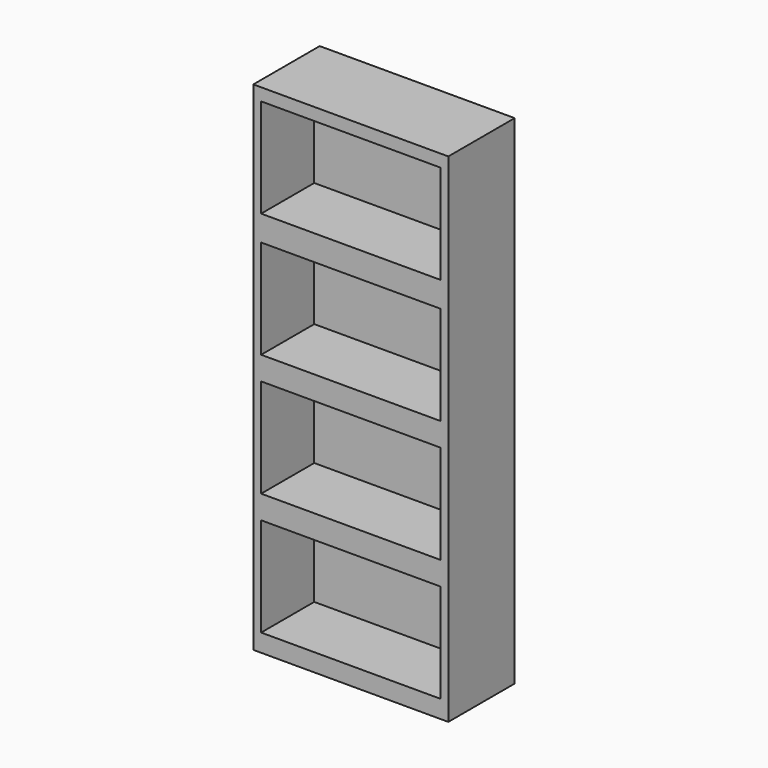
from build123d import *

# Parameters (mm, degrees)
F0_W     = 23.5
F0_H     = 10
F1_DEPTH = 60
F2_W     = 21.615356
F2_H     = 11.912346
F3_DEPTH = 8


with BuildPart() as f1:
    # F0 (on Top) → F1 (new body)
    with BuildSketch(Plane.XY):
        Rectangle(F0_W, F0_H)
    extrude(amount=F1_DEPTH)

    # F2 (on face) → F3 (cut)
    with BuildSketch(Plane.XZ.offset(5)):
        with Locations((0, 52.550074)):
            Rectangle(F2_W, F2_H)
        with Locations((0, 37.576918)):
            Rectangle(F2_W, F2_H)
        with Locations((0, 22.839397)):
            Rectangle(F2_W, F2_H)
        with Locations((0, 8.101878)):
            Rectangle(F2_W, F2_H)
    extrude(amount=-F3_DEPTH, mode=Mode.SUBTRACT)


solid = f1.part
